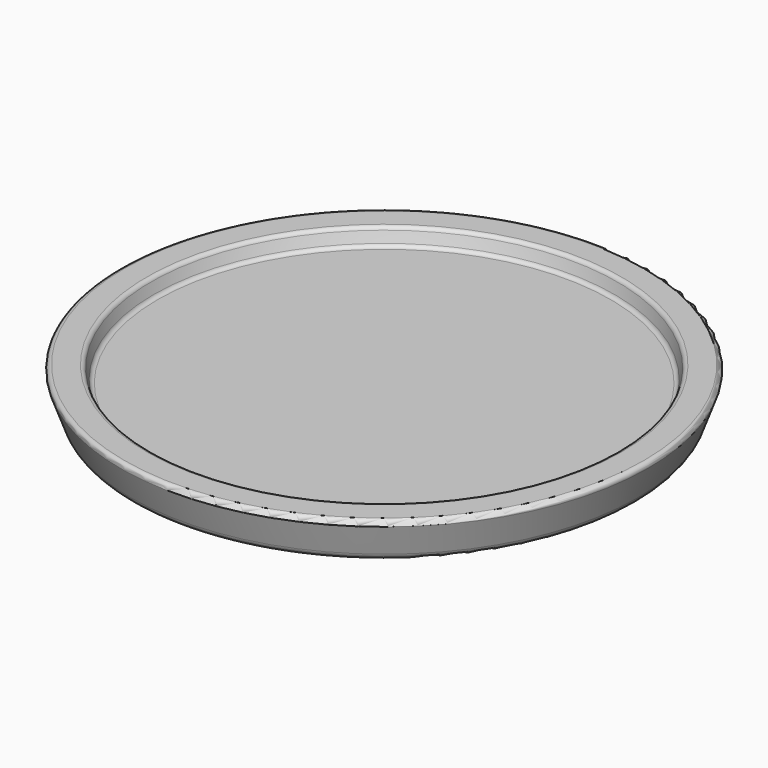
from build123d import *


with BuildPart() as f2:
    # F0 (on Front) → F2 (revolve)
    with BuildSketch(Plane.XZ):
        with BuildLine():
            Line((27.305, 7.601389), (0, 7.601389))
            Line((0, 7.601389), (0, 4.483546))
            Line((0, 4.483546), (29.317615, 4.483546))
            ThreePointArc((29.317615, 4.483546), (30.046057, 4.713222), (30.511025, 5.31918))
            Line((30.511025, 5.31918), (31.814121, 8.899409))
            ThreePointArc((31.814121, 8.899409), (31.752887, 9.364532), (31.336757, 9.581155))
            Line((31.336757, 9.581155), (28.615081, 9.581155))
            ThreePointArc((28.615081, 9.581155), (28.30583, 9.476179), (28.124391, 9.204635))
            Line((28.124391, 9.204635), (27.79569, 7.977909))
            ThreePointArc((27.79569, 7.977909), (27.614251, 7.706366), (27.305, 7.601389))
        make_face()
    revolve(axis=Axis((0, 0, 5.026823), (0, 0, -1)))


solid = f2.part
